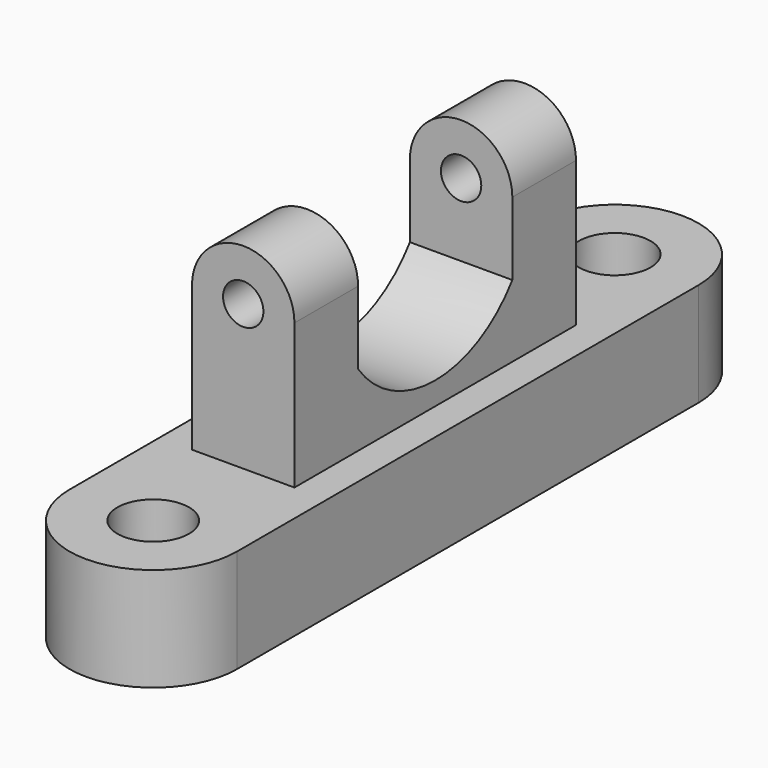
from build123d import *

# Parameters (mm, degrees)
F0_R          = 8.7929686237
F1_DEPTH      = 25.4
F2_R          = 4.9489279231
F3_DEPTH      = 43.18
F3_DEPTH_BACK = 43.18
F5_DEPTH      = 25.4
F5_DEPTH_BACK = 25.4


with BuildPart() as f1:
    # F0 (on Top) → F1 (new body)
    with BuildSketch(Plane.XY):
        with BuildLine():
            ThreePointArc((-20.5612275749, -70.7723498344), (0, -91.3335774094), (20.5612275749, -70.7723498344))
            Line((20.5612275749, -70.7723498344), (20.5612275749, 70.7723498344))
            ThreePointArc((20.5612275749, 70.7723498344), (0, 91.3335774094), (-20.5612275749, 70.7723498344))
            Line((-20.5612275749, 70.7723498344), (-20.5612275749, -70.7723498344))
        make_face()
        with Locations((0, -70.7723498344)):
            Circle(F0_R, mode=Mode.SUBTRACT)
        with Locations((0, 70.7723498344)):
            Circle(F0_R, mode=Mode.SUBTRACT)
    extrude(amount=F1_DEPTH)

    # F2 (on Front) → F3 (join, two sides)
    with BuildSketch(Plane.XZ) as f3_sk:
        with BuildLine():
            Line((-12.5674372539, 25.4), (0, 25.4))
            Line((0, 25.4), (12.5674372539, 25.4))
            Line((12.5674372539, 25.4), (12.5674372539, 60.96))
            ThreePointArc((12.5674372539, 60.96), (0, 73.5274372539), (-12.5674372539, 60.96))
            Line((-12.5674372539, 60.96), (-12.5674372539, 25.4))
        make_face()
        with Locations((0, 60.96)):
            Circle(F2_R, mode=Mode.SUBTRACT)
    extrude(amount=F3_DEPTH)
    extrude(f3_sk.sketch, amount=-F3_DEPTH_BACK)

    # F4 (on Right) → F5 (cut, two sides)
    with BuildSketch(Plane.YZ) as f5_sk:
        with BuildLine():
            Line((23.6512031406, 93.859386313), (-23.6512031406, 93.859386313))
            Line((-23.6512031406, 93.859386313), (-23.6512031406, 43.059386313))
            ThreePointArc((-23.6512031406, 43.059386313), (0, 30.9874073241), (23.6512031406, 43.059386313))
            Line((23.6512031406, 43.059386313), (23.6512031406, 93.859386313))
        make_face()
    extrude(amount=-F5_DEPTH, mode=Mode.SUBTRACT)
    extrude(f5_sk.sketch, amount=F5_DEPTH_BACK, mode=Mode.SUBTRACT)


solid = f1.part
